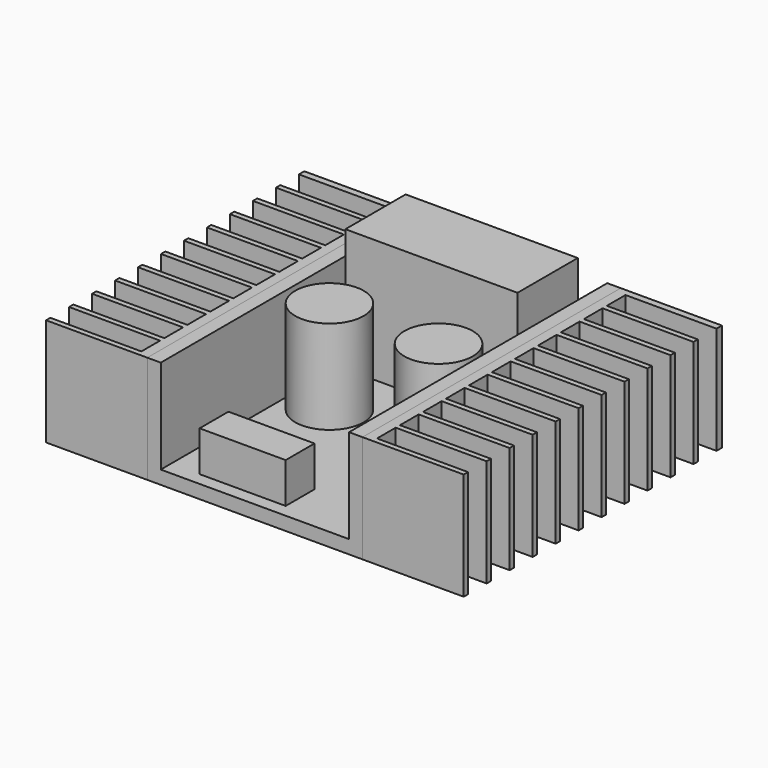
from build123d import *

# Parameters (mm, degrees)
F0_W      = 50.8
F0_H      = 76.2
F1_DEPTH  = 25.4
F2_W      = 44.45
F2_H      = 37.52266
F3_DEPTH  = 76.201
F5_DEPTH  = 25.4
F8_R      = 8.0772
F9_DEPTH  = 22.098
F10_W     = 20.32
F10_H     = 8.509
F11_DEPTH = 9.525
F12_W     = 40.64
F12_H     = 17.78
F13_DEPTH = 29.083


with BuildPart() as f1:
    # F0 (on Top) → F1 (new body)
    with BuildSketch(Plane.XY):
        with Locations((25.4, 38.1)):
            Rectangle(F0_W, F0_H)
    extrude(amount=F1_DEPTH)

    # F2 (on face) → F3 (cut, through all)
    with BuildSketch(Plane.XZ):
        with Locations((25.4, 21.93633)):
            Rectangle(F2_W, F2_H)
    extrude(amount=-F3_DEPTH, mode=Mode.SUBTRACT)


with BuildPart() as f5:
    # F4 (on face) → F5 (new body, through all)
    with BuildSketch(Plane.XY.offset(25.4)):
        Polygon((74.696429, 76.2), (50.8, 76.2), (50.8, 0), (74.696429, 0), (74.696429, 1.27), (53.213, 1.27), (53.213, 6.7818), (74.696429, 6.7818), (74.696429, 8.0518), (53.213, 8.0518), (53.213, 13.5636), (74.696429, 13.5636), (74.696429, 14.8336), (53.213, 14.8336), (53.213, 20.3454), (74.696429, 20.3454), (74.696429, 21.6154), (53.213, 21.6154), (53.213, 27.1272), (74.696429, 27.1272), (74.696429, 28.3972), (53.213, 28.3972), (53.213, 33.909), (74.696429, 33.909), (74.696429, 35.179), (53.213, 35.179), (53.213, 40.6908), (74.696429, 40.6908), (74.696429, 41.9608), (53.213, 41.9608), (53.213, 47.4726), (74.696429, 47.4726), (74.696429, 48.7426), (53.213, 48.7426), (53.213, 54.2544), (74.696429, 54.2544), (74.696429, 55.5244), (53.213, 55.5244), (53.213, 61.0362), (74.696429, 61.0362), (74.696429, 62.3062), (53.213, 62.3062), (53.213, 67.818), (74.696429, 67.818), (74.696429, 69.088), (53.213, 69.088), (53.213, 74.5998), (74.696429, 74.5998), align=None)
    extrude(amount=-F5_DEPTH)


with BuildPart() as f7_1:
    # F7: instance of F5
    add(f5.part.mirror(Plane.YZ.offset(25.4)))


with BuildPart() as f9:
    # F8 (on face) → F9 (new body)
    with BuildSketch(Plane.XY.offset(3.175)):
        with Locations((12.5222, 38.1)):
            Circle(F8_R)
        with Locations((38.2778, 38.1)):
            Circle(F8_R)
    extrude(amount=F9_DEPTH)


with BuildPart() as f11:
    # F10 (on face) → F11 (new body)
    with BuildSketch(Plane.XY.offset(3.175)):
        with Locations((20.066, 7.3025)):
            Rectangle(F10_W, F10_H)
    extrude(amount=F11_DEPTH)


with BuildPart() as f13:
    # F12 (on face) → F13 (new body)
    with BuildSketch(Plane.XY.offset(3.175)):
        with Locations((25.019, 61.468)):
            Rectangle(F12_W, F12_H)
    extrude(amount=F13_DEPTH)


solid = Compound([f1.part, f5.part, f7_1.part, f9.part, f11.part, f13.part])
